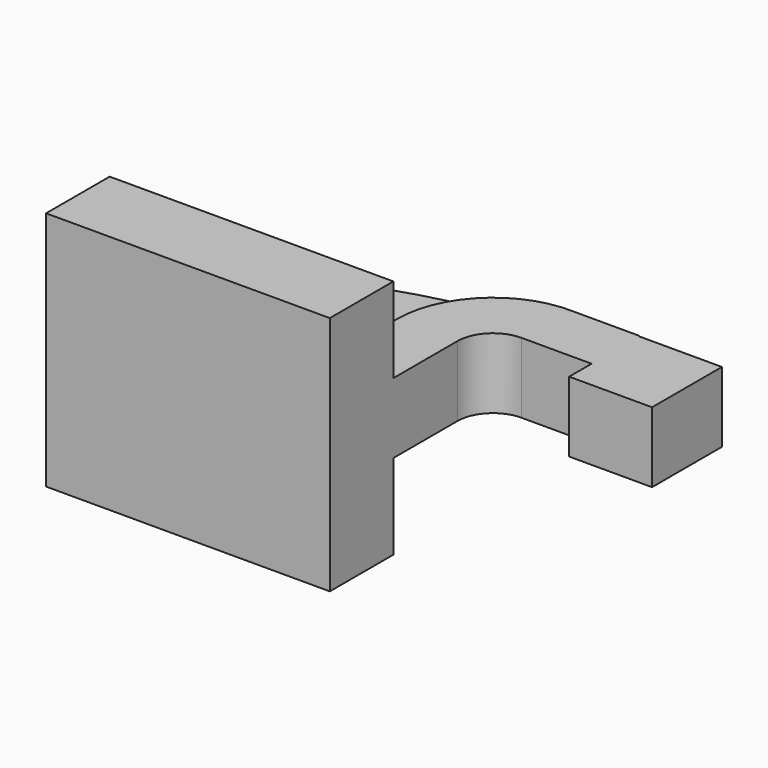
from build123d import *

# Parameters (mm, degrees)
F1_DEPTH = 42.4
F0_W     = 29.2045593262
F0_H     = 20.9105454808
F0_H_2   = 9.8793879763
F2_DEPTH = 12.4
F3_DEPTH = 5


with BuildPart() as f1:
    # F0 (on Top) → F1 (new body, symmetric)
    with BuildSketch(Plane.XY):
        Polygon((-50, -14), (50, -14), (50, 14), (28.8000002503, 14), (-50, 14), align=None)
    extrude(amount=F1_DEPTH, both=True)

    # F0 (on Top) → F2 (join, symmetric)
    with BuildSketch(Plane.XY):
        with BuildLine():
            Line((28.8000002503, 14), (50, 14))
            Line((50, 14), (50, 42.2444418685))
            ThreePointArc((50, 42.2444418685), (53.6694869302, 51.1033669823), (62.528412044, 54.7728539125))
            Line((62.528412044, 54.7728539125), (87.2514024377, 54.7728539125))
            Line((87.2514024377, 54.7728539125), (87.2514024377, 75.6833993933))
            Line((87.2514024377, 75.6833993933), (87.2514024377, 75.9728536622))
            Line((87.2514024377, 75.9728536622), (62.528412044, 75.9728536622))
            add(Edge.make_bspline(
                [(59.6423828035, 75.8491528083), (60.623221152, 75.9014989859), (61.5857310507, 75.9427206922), (62.528412044, 75.9728536622)],
                knots=[125.3288073091, 125.3288073091, 125.3288073091, 125.3288073091, 128.4650851718, 128.4650851718, 128.4650851718, 128.4650851718], degree=3))
            ThreePointArc((59.6423828035, 75.8491528083), (37.6793985345, 65.0508508301), (28.8000002503, 42.2444418685))
            Line((28.8000002503, 42.2444418685), (28.8000002503, 14))
        make_face()
        with Locations((101.8536821008, 65.2281266529)):
            Rectangle(F0_W, F0_H)
        with Locations((101.8536821008, 49.8331599243)):
            Rectangle(F0_W, F0_H_2)
    extrude(amount=F2_DEPTH, both=True)

    # F0 (on Top) → F3 (join, symmetric)
    with BuildSketch(Plane.XY):
        with BuildLine():
            add(Edge.make_bspline(
                [(-50, 14), (-48.0165507364, 53.9010766579), (20.4470991711, 73.7573470777), (59.6423828035, 75.8491528083)],
                knots=[0, 0, 0, 0, 125.3288073091, 125.3288073091, 125.3288073091, 125.3288073091], degree=3))
            Line((-50, 14), (28.8000002503, 14))
            Line((28.8000002503, 14), (28.8000002503, 42.2444418685))
            ThreePointArc((28.8000002503, 42.2444418685), (37.6793985345, 65.0508508301), (59.6423828035, 75.8491528083))
        make_face()
    extrude(amount=F3_DEPTH, both=True)


solid = f1.part
